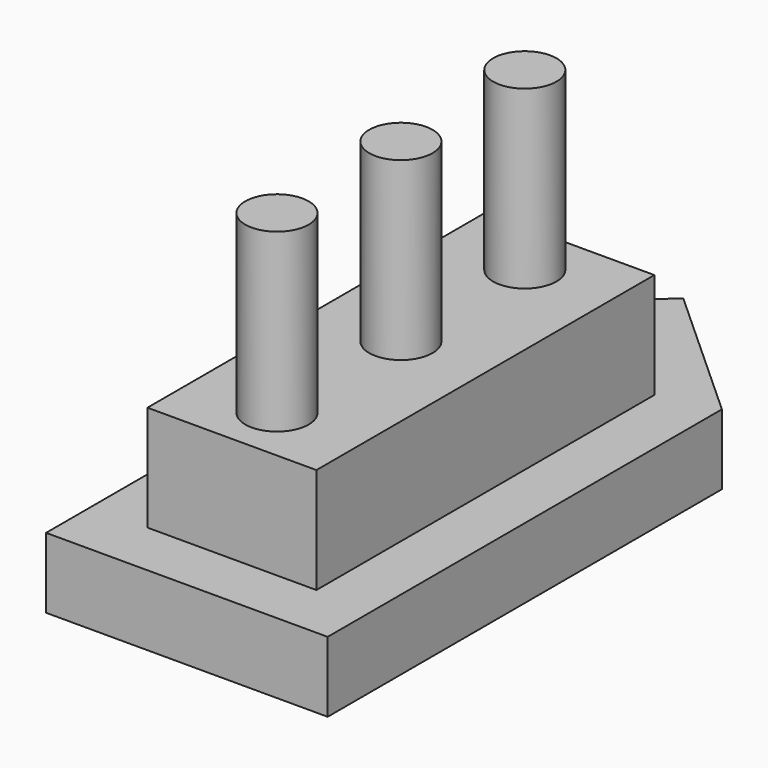
from build123d import *

# Parameters (mm, degrees)
F1_DEPTH = 10
F2_W     = 24
F2_H     = 60
F3_DEPTH = 25
F4_R     = 4.5
F5_DEPTH = 25


with BuildPart() as f1:
    # F0 (on Top) → F1 (new body)
    with BuildSketch(Plane.XY):
        Polygon((0, 53.662619), (-20, 35.524262), (-20, -34.475738), (20, -34.475738), (20, 35.524262), align=None)
    extrude(amount=F1_DEPTH)

    # F2 (on Top) → F3 (join)
    with BuildSketch(Plane.XY):
        with Locations((0, 3.524262)):
            Rectangle(F2_W, F2_H)
    extrude(amount=F3_DEPTH)

    # F4 (on face) → F5 (join)
    with BuildSketch(Plane.XY.offset(25)):
        with Locations((0, 25.524262)):
            Circle(F4_R)
        with Locations((0, 3.524262)):
            Circle(F4_R)
        with Locations((0, -18.475738)):
            Circle(F4_R)
    extrude(amount=F5_DEPTH)


solid = f1.part
